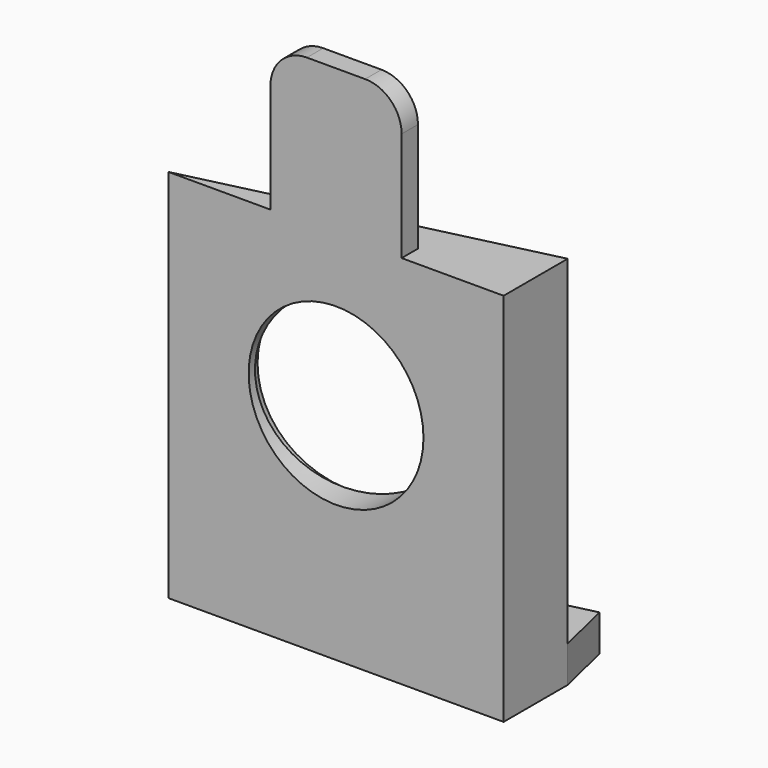
from build123d import *

# Parameters (mm, degrees)
F1_DEPTH = 51.5
F2_R     = 12
F3_DEPTH = 11.001
F4_R     = 13.1
F5_DEPTH = 1.5
F6_W     = 15
F6_H     = 5
F7_DEPTH = 8
F8_W     = 18
F8_H     = 2.8
F9_DEPTH = 20
F10_R    = 5


with BuildPart() as f1:
    # F0 (on Top) → F1 (new body)
    with BuildSketch(Plane.XY):
        Polygon((23, 11), (-23, 0), (23, 0), align=None)
    extrude(amount=F1_DEPTH)

    # F2 (on face) → F3 (cut, through all)
    with BuildSketch(Plane.XZ):
        with Locations((0, 30.75)):
            Circle(F2_R)
    extrude(amount=-F3_DEPTH, mode=Mode.SUBTRACT)

    # F4 (on face) → F5 (cut)
    with BuildSketch(Plane(origin=(-1.2440768887, 5.2025033527, 0), x_dir=(-0.9725788917, -0.2325732132, 0), z_dir=(-0.2325732132, 0.9725788917, 0))):
        with Locations((-1.2791526727, 30.75)):
            Circle(F4_R)
    extrude(amount=-F5_DEPTH, mode=Mode.SUBTRACT)

    # F6 (on face) → F7 (join)
    with BuildSketch(Plane(origin=(-1.2440768887, 5.2025033527, 0), x_dir=(-0.9725788917, -0.2325732132, 0), z_dir=(-0.2325732132, 0.9725788917, 0))):
        with Locations((-17.4276198535, 2.5)):
            Rectangle(F6_W, F6_H)
    extrude(amount=F7_DEPTH)

    # F8 (on face) → F9 (join)
    with BuildSketch(Plane.XY.offset(51.5)):
        with Locations((0, 1.4)):
            Rectangle(F8_W, F8_H)
    extrude(amount=F9_DEPTH)

    # F10
    f10_edges = [f1.edges().sort_by_distance(p)[0] for p in [
        (6.550731, 15.292033, 2.5),
        (-9, 1.4, 71.5),
        (9, 1.4, 71.5),
    ]]
    fillet(f10_edges, radius=F10_R)


solid = f1.part
